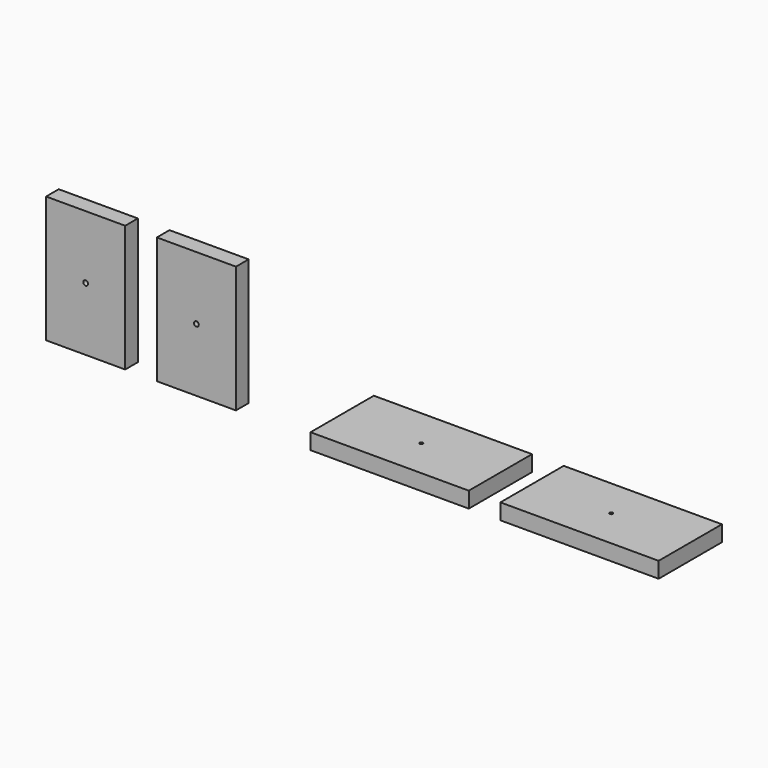
from build123d import *

# Parameters (mm, degrees)
F0_W     = 100
F0_H     = 50
F1_DEPTH = 10
F3_D     = 2
F5_W     = 50
F5_H     = 80
F6_DEPTH = 10
F8_D     = 3


with BuildPart() as f1:
    # F0 (on Top) → F1 (new body)
    with BuildSketch(Plane.XY):
        with Locations((6.251479, 2.267786)):
            Rectangle(F0_W, F0_H)
    extrude(amount=F1_DEPTH)

    # F3 (through all)
    with Locations(Plane.XY.offset(10)):
        with Locations((6.251479, 2.267786)):
            Hole(F3_D / 2)


with BuildPart() as f4_1:
    # F4: copy of F1
    add(f1.part.moved(Location((120, 0, 0))))


with BuildPart() as f6:
    # F5 (on Front) → F6 (new body)
    with BuildSketch(Plane.XZ):
        with Locations((-196.074508, 38.304226)):
            Rectangle(F5_W, F5_H)
    extrude(amount=F6_DEPTH)

    # F8 (through all)
    with Locations(Plane.XZ.offset(10)):
        with Locations((-196.074508, 38.304226)):
            Hole(F8_D / 2)


with BuildPart() as f9_1:
    # F9: copy of F6
    add(f6.part.moved(Location((70, 0, 0))))


solid = Compound([f1.part, f4_1.part, f6.part, f9_1.part])
